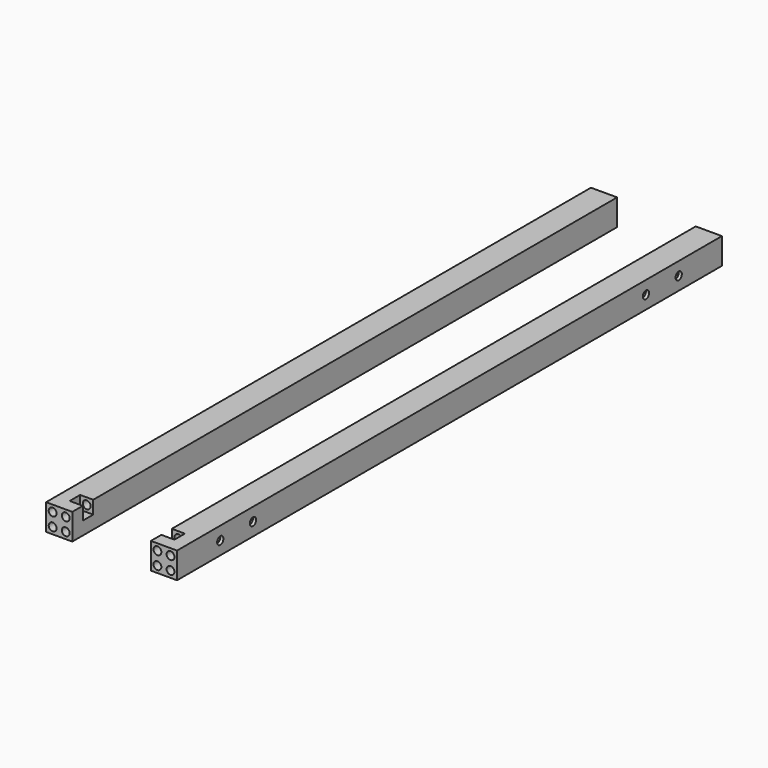
from build123d import *

# Parameters (mm, degrees)
F0_W      = 10
F0_H      = 10
F0_W_2    = 7.5
F0_H_2    = 7.5
F1_DEPTH  = 250
F2_DEPTH  = 5
F4_W      = 10
F4_H      = 125
F5_DEPTH  = 25
F3_R      = 1.5
F6_DEPTH  = 5
F7_DEPTH  = 10
F8_R      = 1.5
F9_DEPTH  = 5
F10_R     = 1.5
F11_DEPTH = 5
F13_W     = 5
F13_H     = 5
F14_DEPTH = 5
F15_DEPTH = 15


with BuildPart() as f1:
    # F0 (on Front) → F1 (new body)
    with BuildSketch(Plane.XZ):
        with Locations((-5, 5)):
            Rectangle(F0_W, F0_H)
        with Locations((-5, 5)):
            Rectangle(F0_W_2, F0_H_2, mode=Mode.SUBTRACT)
    extrude(amount=-F1_DEPTH)

    # F0 (on Front) → F2 (join)
    with BuildSketch(Plane.XZ):
        with Locations((-5, 5)):
            Rectangle(F0_W, F0_H)
        with Locations((-5, 5)):
            Rectangle(F0_W_2, F0_H_2, mode=Mode.SUBTRACT)
        with Locations((-5, 5)):
            Rectangle(F0_W_2, F0_H_2)
    extrude(amount=F2_DEPTH)

    # F4 (on face) → F5 (cut)
    with BuildSketch(Plane.XY.offset(10)):
        with Locations((-5, 187.5)):
            Rectangle(F4_W, F4_H)
    extrude(amount=-F5_DEPTH, mode=Mode.SUBTRACT)

    # F3 (on face) → F6 (cut)
    with BuildSketch(Plane.XZ.offset(5)):
        with Locations((-2.5, 2.5)):
            Circle(F3_R)
        with Locations((-2.5, 7.5)):
            Circle(F3_R)
        with Locations((-7.5, 2.5)):
            Circle(F3_R)
    extrude(amount=-F6_DEPTH, mode=Mode.SUBTRACT)

    # F0 (on Front) → F7 (join)
    with BuildSketch(Plane.XZ):
        with Locations((-5, 5)):
            Rectangle(F0_W_2, F0_H_2)
    extrude(amount=-F7_DEPTH)

    # F8 (on face) → F9 (cut)
    with BuildSketch(Plane.YZ):
        with Locations((15.625, 5)):
            Circle(F8_R)
        with Locations((31.25, 5)):
            Circle(F8_R)
    extrude(amount=-F9_DEPTH, mode=Mode.SUBTRACT)

    # F10 (on face) → F11 (cut)
    with BuildSketch(Plane(origin=(0, 0, 0), x_dir=(1, 0, 0), z_dir=(0, 0, -1))):
        with Locations((-5, -31.25)):
            Circle(F10_R)
        with Locations((-5, -15.625)):
            Circle(F10_R)
    extrude(amount=-F11_DEPTH, mode=Mode.SUBTRACT)

    # F12: F1 across face


with BuildPart() as f1_1:
    add(f1.part)
    add(f1.part.mirror(Plane(origin=(-5, 125, 5), x_dir=(-1, 0, 0), z_dir=(0, 1, 0))))

    # F13 (on face) → F14 (cut)
    with BuildSketch(Plane.XY.offset(10)):
        with Locations((-7.5, 2.5)):
            Rectangle(F13_W, F13_H)
    extrude(amount=-F14_DEPTH, mode=Mode.SUBTRACT)

    # F3 (on face) → F15 (cut)
    with BuildSketch(Plane.XZ.offset(5)):
        with Locations((-7.5, 7.5)):
            Circle(F3_R)
    extrude(amount=-F15_DEPTH, mode=Mode.SUBTRACT)


with BuildPart() as f16_1:
    # F16: instance of F1
    add(f1_1.part.mirror(Plane(origin=(-10, 126.1893203883, 4.9757281553), x_dir=(0, -1, 0), z_dir=(-1, 0, 0))))


with BuildPart() as f16_1_1:
    # F17: moved
    add(f16_1.part.moved(Location((-30, 0, 0))))


solid = Compound([f1_1.part, f16_1_1.part])
